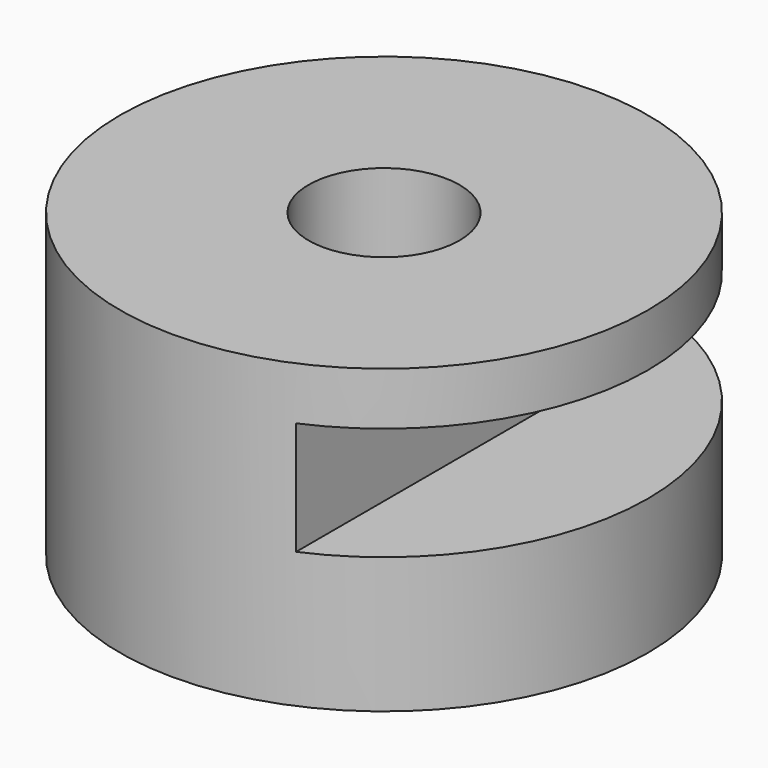
from build123d import *

# Parameters (mm, degrees)
BOX001_W          = 30
BOX001_H          = 70
BOX001_DEPTH      = 7.5
CYLINDER003_R     = 5
CYLINDER003_DEPTH = 40
CYLINDER002_R     = 17.5
CYLINDER002_DEPTH = 20


with BuildPart() as cube001:
    # Box001 → Box001 (new body)
    with BuildSketch(Plane(origin=(7, -20, 9), x_dir=(1, 0, 0), z_dir=(0, 0, 1))):
        with Locations((15, 35)):
            Rectangle(BOX001_W, BOX001_H)
    extrude(amount=BOX001_DEPTH)


with BuildPart() as cylinder003:
    # Cylinder003 → Cylinder003 (new body)
    with BuildSketch(Plane.XY.offset(-10)):
        Circle(CYLINDER003_R)
    extrude(amount=CYLINDER003_DEPTH)


with BuildPart() as mount_top:
    # Cylinder002 → Cylinder002 (new body)
    with BuildSketch(Plane.XY):
        Circle(CYLINDER002_R)
    extrude(amount=CYLINDER002_DEPTH)

    # Cut002: cut Cylinder003
    add(cylinder003.part, mode=Mode.SUBTRACT)

    # Cut003: cut Cube001
    add(cube001.part, mode=Mode.SUBTRACT)


solid = mount_top.part
